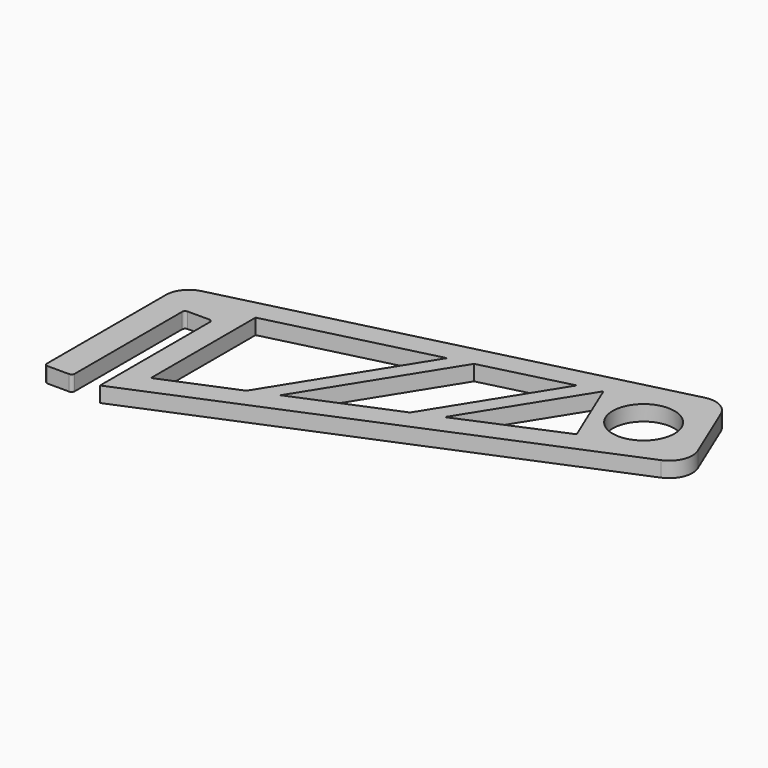
from build123d import *

# Parameters (mm, degrees)
F0_R     = 10
F1_DEPTH = 5


with BuildPart() as f1:
    # F0 (on Top) → F1 (new body)
    with BuildSketch(Plane.XY):
        with BuildLine():
            ThreePointArc((-79.890026, 0), (-79.182919, 0.292893), (-78.890026, 1))
            Line((-78.890026, 1), (-78.890026, 44.5))
            ThreePointArc((-78.890026, 44.5), (-78.597133, 45.207107), (-77.890026, 45.5))
            Line((-77.890026, 45.5), (-70.890026, 45.5))
            ThreePointArc((-70.890026, 45.5), (-70.182919, 45.207107), (-69.890026, 44.5))
            Line((-69.890026, 44.5), (-69.890026, 0))
            Line((-69.890026, 0), (66.528554, 56.729136))
            ThreePointArc((66.528554, 56.729136), (70.581868, 60.793756), (70.573874, 66.534002))
            Line((70.573874, 66.534002), (62.493371, 85.965476))
            ThreePointArc((62.493371, 85.965476), (58.938302, 89.785922), (53.751584, 90.362352))
            Line((53.751584, 90.362352), (-82.20672, 56.418899))
            ThreePointArc((-82.20672, 56.418899), (-86.30083, 53.758785), (-87.890026, 49.142249))
            Line((-87.890026, 49.142249), (-87.890026, 1))
            ThreePointArc((-87.890026, 1), (-87.597133, 0.292893), (-86.890026, 0))
            Line((-86.890026, 0), (-79.890026, 0))
        make_face()
        Polygon((-62.390026, 53.636143), (-10.687523, 66.544229), (-39.176145, 20.894883), (-62.390026, 11.241481), align=None, mode=Mode.SUBTRACT)
        Polygon((-30.880324, 24.344668), (-3.410874, 68.360923), (24.289399, 75.359991), (0.629378, 37.447855), align=None, mode=Mode.SUBTRACT)
        Polygon((9.017346, 40.935959), (31.585224, 77.098076), (40.997005, 54.46523), align=None, mode=Mode.SUBTRACT)
        with Locations((50.109974, 70.167761)):
            Circle(F0_R, mode=Mode.SUBTRACT)
    extrude(amount=F1_DEPTH)


solid = f1.part
